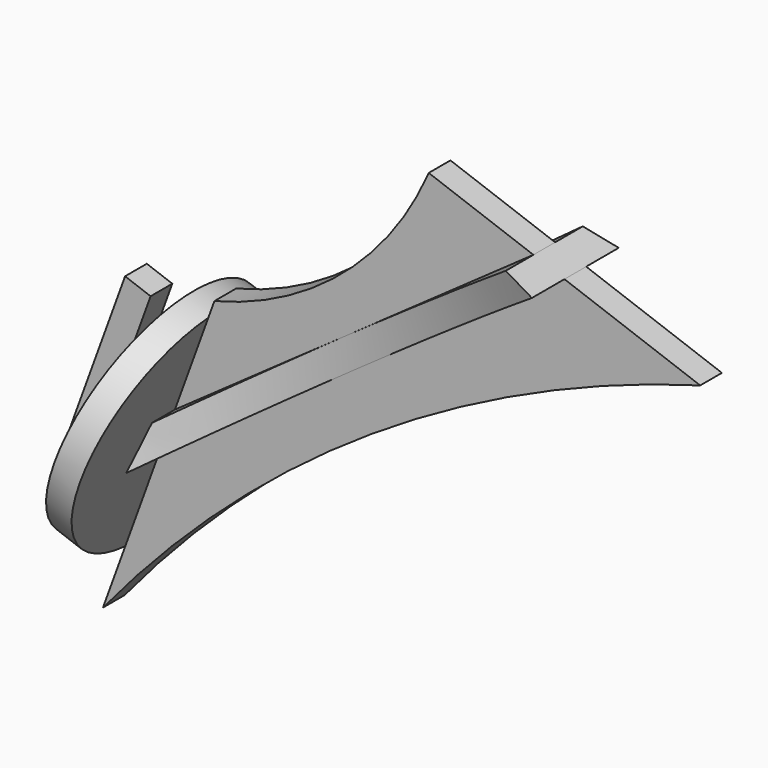
from build123d import *

# Parameters (mm, degrees)
F1_DEPTH      = 1.5875
F1_DEPTH_BACK = 1.5875
F2_DEPTH      = 6.35
F2_DEPTH_BACK = 6.35
F4_DEPTH      = 3.175
F7_DEPTH      = 9.525
F8_W          = 3.175
F8_H          = 9.525
F9_DEPTH      = 6.35
F10_R         = 14.2875
F11_DEPTH     = 3.175


with BuildPart() as f1:
    # F0 (on Front) → F1 (new body, two sides)
    with BuildSketch(Plane.XZ) as f1_sk:
        with BuildLine():
            Line((6.5154837304, 17.901144426), (0, 0))
            ThreePointArc((0, 0), (31.4472391318, 28.1249079907), (69.85, 45.593945062))
            Line((69.85, 45.593945062), (53.975, 51.371972531))
            Line((53.975, 51.371972531), (6.5154837304, 17.901144426))
        make_face()
    extrude(amount=-F1_DEPTH)
    extrude(f1_sk.sketch, amount=F1_DEPTH_BACK)


with BuildPart() as f1b:
    # F0 (on Front) → F1, piece 2 (new body, two sides)
    with BuildSketch(Plane.XZ) as f1_2_sk:
        with BuildLine():
            Line((13.0309674607, 35.8022888519), (8.4178990072, 23.1279874415))
            Line((8.4178990072, 23.1279874415), (50.3413574439, 52.6945102634))
            Line((50.3413574439, 52.6945102634), (38.1, 57.15))
            ThreePointArc((38.1, 57.15), (28.0500865293, 43.558427019), (13.0309674607, 35.8022888519))
        make_face()
    extrude(amount=-F1_DEPTH)
    extrude(f1_2_sk.sketch, amount=F1_DEPTH_BACK)


with BuildPart() as f2:
    # F0 (on Front) → F2 (new body, two sides)
    with BuildSketch(Plane.XZ) as f2_sk:
        Polygon((8.4178990072, 23.1279874415), (6.5154837304, 17.901144426), (53.975, 51.371972531), (50.3413574439, 52.6945102634), align=None)
    extrude(amount=-F2_DEPTH)
    extrude(f2_sk.sketch, amount=F2_DEPTH_BACK)

    # F3 (on face) → F4 (cut)
    with BuildSketch(Plane(origin=(-6.2670410681, 0, 8.8862676656), x_dir=(0.8172112207, 0, 0.5763382867), z_dir=(0.5763382867, 0, -0.8172112207))):
        with BuildLine():
            Line((73.7166102717, 6.35), (15.6416413214, 6.35))
            ThreePointArc((15.6416413214, 6.35), (44.6791257965, 1.5875), (73.7166102717, 6.35))
        make_face()
        with BuildLine():
            ThreePointArc((73.7166102717, -6.35), (44.6791257965, -1.5875), (15.6416413214, -6.35))
            Line((15.6416413214, -6.35), (73.7166102717, -6.35))
        make_face()
    extrude(amount=-F4_DEPTH, mode=Mode.SUBTRACT)


with BuildPart() as f1b_1:
    add(f1b.part)

    # F5: union F2, F1
    add(f2.part)
    add(f1.part)

    # F6 (on face) → F7 (join)
    with BuildSketch(Plane(origin=(0, 0, 0), x_dir=(0, -1, 0), z_dir=(-0.9396926208, 0, 0.3420201433))):
        Polygon((1.5875, 33.7373950786), (-1.5875, 33.7373950786), (-1.5875, 24.6122901573), (-1.5875, 19.05), (-1.5875, 9.9248950786), (1.5875, 9.9248950786), (1.5875, 19.05), (1.5875, 24.6122901573), align=None)
    extrude(amount=F7_DEPTH)

    # F8 (on face) → F9 (cut)
    with BuildSketch(Plane(origin=(0, 0, 0), x_dir=(0, -1, 0), z_dir=(-0.9396926208, 0, 0.3420201433))):
        with Locations((0, 28.9748950786)):
            Rectangle(F8_W, F8_H)
        with Locations((0, 14.6873950786)):
            Rectangle(F8_W, F8_H)
    extrude(amount=F9_DEPTH, mode=Mode.SUBTRACT)

    # F10 (on face) → F11 (join)
    with BuildSketch(Plane(origin=(0, 0, 0), x_dir=(0, -1, 0), z_dir=(-0.9396926208, 0, 0.3420201433))):
        with Locations((-0.0234540593, 21.8311450786)):
            Circle(F10_R)
        Polygon((-1.5875, 33.7373950786), (1.5875, 33.7373950786), (1.5875, 24.6122901573), (1.5875, 19.05), (1.5875, 9.9248950786), (-1.5875, 9.9248950786), (-1.5875, 19.05), (-1.5875, 24.6122901573), align=None, mode=Mode.SUBTRACT)
        Polygon((1.5875, 24.6122901573), (1.5875, 33.7373950786), (-1.5875, 33.7373950786), (-1.5875, 24.6122901573), (-1.5875, 19.05), (-1.5875, 9.9248950786), (1.5875, 9.9248950786), (1.5875, 19.05), align=None)
    extrude(amount=F11_DEPTH)


solid = f1b_1.part
